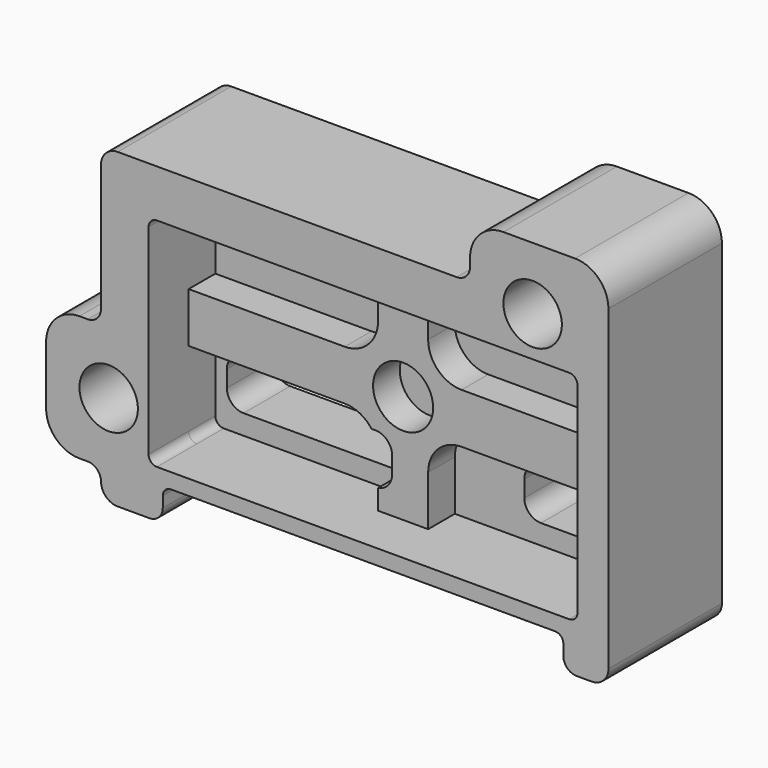
from build123d import *

# Parameters (mm, degrees)
SKETCH006_R             = 1.75
SKETCH006_W             = 6.5
SKETCH006_H             = 3
SKETCH006_W_2           = 11.5
PAD001_DEPTH            = 8.5
FILLET004_R             = 1
FILLET005_R             = 0.8
FILLET006_R             = 0.5
SKETCH007_W             = 25.7
SKETCH007_H             = 13
POCKET002_DEPTH         = 3
FILLET007_R             = 0.5
SKETCH008_R             = 1.8
POCKET003_DEPTH         = 2
BODY001_PLACEMENT_ANGLE = 180


with BuildPart() as part:
    # Sketch006 → Pad001 (new body)
    with BuildSketch(Plane.XZ):
        with BuildLine():
            Line((15.7, 8.35), (15.7, -0.06))
            Line((15.7, -0.06), (16.99, -0.06))
            ThreePointArc((18.99, -2.06), (18.404214, -0.645786), (16.99, -0.06))
            Line((18.99, -2.06), (18.99, -5.56))
            ThreePointArc((16.99, -7.56), (18.404214, -6.974214), (18.99, -5.56))
            Line((16.99, -7.56), (15.7, -7.56))
            Line((15.7, -8.35), (15.7, -7.56))
            ThreePointArc((14.7, -9.35), (15.407107, -9.057107), (15.7, -8.35))
            Line((14.7, -9.35), (12, -9.35))
            Line((12, -7.41), (12, -9.35))
            Line((-12, -7.41), (12, -7.41))
            Line((-12, -7.41), (-12, -9.35))
            Line((-12, -9.35), (-13.7, -9.35))
            ThreePointArc((-14.7, -8.35), (-14.407107, -9.057107), (-13.7, -9.35))
            Line((-14.7, -8.35), (-14.7, 10.64))
            ThreePointArc((-12.7, 12.64), (-14.114214, 12.054214), (-14.7, 10.64))
            Line((-12.7, 12.64), (-8.41, 12.64))
            ThreePointArc((-6.41, 10.64), (-6.995786, 12.054214), (-8.41, 12.64))
            Line((-6.41, 10.64), (-6.41, 9.35))
            Line((-6.41, 9.35), (14.7, 9.35))
            ThreePointArc((15.7, 8.35), (15.407107, 9.057107), (14.7, 9.35))
        make_face()
        with Locations((-10.16, 8.89)):
            Circle(SKETCH006_R, mode=Mode.SUBTRACT)
        with Locations((15.24, -3.81)):
            Circle(SKETCH006_R, mode=Mode.SUBTRACT)
        with Locations((-8.91, -3.81)):
            Rectangle(SKETCH006_W, SKETCH006_H, mode=Mode.SUBTRACT)
        with Locations((6.41, -3.81)):
            Rectangle(SKETCH006_W_2, SKETCH006_H, mode=Mode.SUBTRACT)
    extrude(amount=-PAD001_DEPTH)

    # Fillet004
    fillet004_edges = [part.edges().sort_by_distance(p)[0] for p in [
        (12.16, 4.25, -2.31),
        (0.66, 4.25, -2.31),
        (-12.16, 4.25, -2.31),
        (-5.66, 4.25, -2.31),
        (12.16, 4.25, -5.31),
        (-5.66, 4.25, -5.31),
        (-12.16, 4.25, -5.31),
        (0.66, 4.25, -5.31),
    ]]
    fillet(fillet004_edges, radius=FILLET004_R)

    # Fillet005
    fillet005_edges = [part.edges().sort_by_distance(p)[0] for p in [
        (15.7, 4.25, -7.56),
        (15.7, 4.25, -0.06),
        (-6.41, 4.25, 9.35),
        (12, 4.25, -9.35),
        (-12, 4.25, -9.35),
    ]]
    fillet(fillet005_edges, radius=FILLET005_R)

    # Fillet006
    fillet006_edges = [part.edges().sort_by_distance(p)[0] for p in [
        (-12, 4.25, -7.41),
        (12, 4.25, -7.41),
    ]]
    fillet(fillet006_edges, radius=FILLET006_R)

    # Sketch007 (on Face47 of Fillet006) → Pocket002 (cut)
    with BuildSketch(Plane(origin=(0, 8.5, 0), x_dir=(1, 0, 0), z_dir=(0, 1, 0))):
        Rectangle(SKETCH007_W, SKETCH007_H)
    extrude(amount=-POCKET002_DEPTH, mode=Mode.SUBTRACT)

    # Fillet007
    fillet007_edges = [part.edges().sort_by_distance(p)[0] for p in [
        (12.85, 7, 6.5),
        (12.85, 7, -6.5),
        (-12.85, 7, 6.5),
        (-12.85, 7, -6.5),
    ]]
    fillet(fillet007_edges, radius=FILLET007_R)

    # Sketch008 (on Face39 of Fillet007) → Pocket003 (cut)
    with BuildSketch(Plane(origin=(0, 5.5, 0), x_dir=(1, 0, 0), z_dir=(0, 1, 0))):
        Circle(SKETCH008_R)
        with BuildLine():
            Line((1.5, -6.5), (12.35, -6.5))
            ThreePointArc((12.35, -6.5), (12.703553, -6.353553), (12.85, -6))
            Line((12.85, -6), (12.85, -1.5))
            Line((12.85, -1.5), (3.5, -1.5))
            ThreePointArc((3.5, -1.5), (2.085786, -2.085786), (1.5, -3.5))
            Line((1.5, -3.5), (1.5, -6.5))
        make_face()
        with BuildLine():
            Line((-1.5, -6.5), (-12.35, -6.5))
            ThreePointArc((-12.85, -6), (-12.703553, -6.353553), (-12.35, -6.5))
            Line((-12.85, -6), (-12.85, -1.5))
            Line((-12.85, -1.5), (-3.5, -1.5))
            ThreePointArc((-1.5, -3.5), (-2.085786, -2.085786), (-3.5, -1.5))
            Line((-1.5, -3.5), (-1.5, -6.5))
        make_face()
        with BuildLine():
            Line((-1.5, 6.5), (-12.35, 6.5))
            ThreePointArc((-12.35, 6.5), (-12.703553, 6.353553), (-12.85, 6))
            Line((-12.85, 6), (-12.85, 1.5))
            Line((-12.85, 1.5), (-3.5, 1.5))
            ThreePointArc((-3.5, 1.5), (-2.085786, 2.085786), (-1.5, 3.5))
            Line((-1.5, 3.5), (-1.5, 6.5))
        make_face()
        with BuildLine():
            Line((1.5, 6.5), (12.35, 6.5))
            ThreePointArc((12.85, 6), (12.703553, 6.353553), (12.35, 6.5))
            Line((12.85, 6), (12.85, 1.5))
            Line((12.85, 1.5), (3.5, 1.5))
            ThreePointArc((1.5, 3.5), (2.085786, 2.085786), (3.5, 1.5))
            Line((1.5, 3.5), (1.5, 6.5))
        make_face()
    extrude(amount=-POCKET003_DEPTH, mode=Mode.SUBTRACT)


with BuildPart() as part_1:
    # Body001 placement: moved
    add(part.part.moved(Location((0, 8.5, 0))).rotate(Axis((0, 8.5, 0), (0, 0, 1)), BODY001_PLACEMENT_ANGLE))


solid = part_1.part
